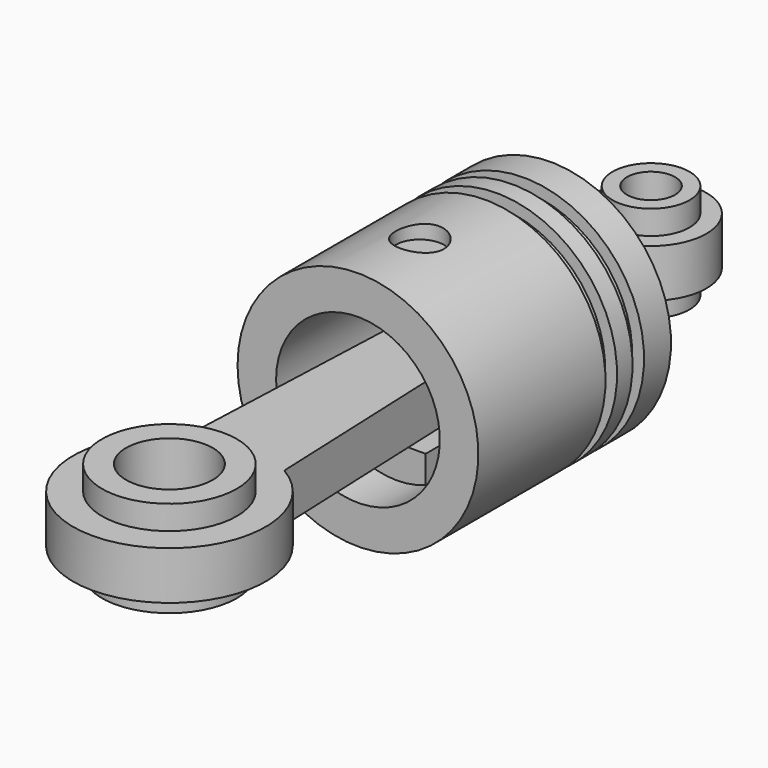
from build123d import *

# Parameters (mm, degrees)
SKETCH001_R          = 5
POCKET_DEPTH         = 25.001
POCKET_DEPTH_BACK    = 25.001
SKETCH005_W          = 12
SKETCH005_H          = 12
PAD002_DEPTH         = 44
SKETCH006_W          = 20.492604
SKETCH006_H          = 20.363478
POCKET002_DEPTH      = 16
PAD_DEPTH            = 5
SKETCH003_R          = 8
SKETCH003_R_2        = 14
PAD001_DEPTH         = 10
SKETCH004_R          = 5
SKETCH004_R_2        = 9
POCKET001_DEPTH      = 10.001
POCKET001_DEPTH_BACK = -10.001


with BuildPart() as head:
    # Sketch → Revolution (revolve)
    with BuildSketch(Plane.XY):
        Polygon((-17, -16.062352), (-25, -16.062352), (-25, 16.937648), (-22.55582, 16.937648), (-22.55582, 19.937648), (-25, 19.937648), (-25, 23.937648), (-22.55582, 23.937648), (-22.55582, 26.937648), (-25, 26.937648), (-25, 33.937648), (0, 33.937648), (0, 27.937648), (-17, 27.937648), align=None)
    revolve(axis=Axis((0, 0, 0), (0, 1, 0)))

    # Sketch001 → Pocket (cut, two sides)
    with BuildSketch(Plane.XY) as pocket_sk:
        Circle(SKETCH001_R)
    extrude(amount=POCKET_DEPTH, mode=Mode.SUBTRACT)
    extrude(pocket_sk.sketch, amount=-POCKET_DEPTH_BACK, mode=Mode.SUBTRACT)

    # Sketch005 → Pad002 (join)
    with BuildSketch(Plane.XY.offset(22)):
        Rectangle(SKETCH005_W, SKETCH005_H)
    extrude(amount=-PAD002_DEPTH)

    # Sketch006 → Pocket002 (cut)
    with BuildSketch(Plane.XZ.offset(10)):
        Rectangle(SKETCH006_W, SKETCH006_H)
    extrude(amount=-POCKET002_DEPTH, mode=Mode.SUBTRACT)


with BuildPart() as rod:
    # Sketch002 → Pad (new body, symmetric)
    with BuildSketch(Plane.XY):
        with BuildLine():
            ThreePointArc((6, 50.189292), (0, 71.5), (-6, 50.189292))
            Line((-6, 50.189292), (-10, -47.679492))
            ThreePointArc((-10, -47.679492), (0, -85), (10, -47.679492))
            Line((6, 50.189292), (10, -47.679492))
        make_face()
    extrude(amount=PAD_DEPTH, both=True)

    # Sketch003 → Pad001 (join, symmetric)
    with BuildSketch(Plane.XY):
        with Locations((0, 60)):
            Circle(SKETCH003_R)
        with Locations((0, -65)):
            Circle(SKETCH003_R_2)
    extrude(amount=PAD001_DEPTH, both=True)

    # Sketch004 → Pocket001 (cut, two sides)
    with BuildSketch(Plane.XY) as pocket001_sk:
        with Locations((0, 60)):
            Circle(SKETCH004_R)
        with Locations((0, -65)):
            Circle(SKETCH004_R_2)
    extrude(amount=-POCKET001_DEPTH, mode=Mode.SUBTRACT)
    extrude(pocket001_sk.sketch, amount=-POCKET001_DEPTH_BACK, mode=Mode.SUBTRACT)


solid = Compound([head.part, rod.part])
